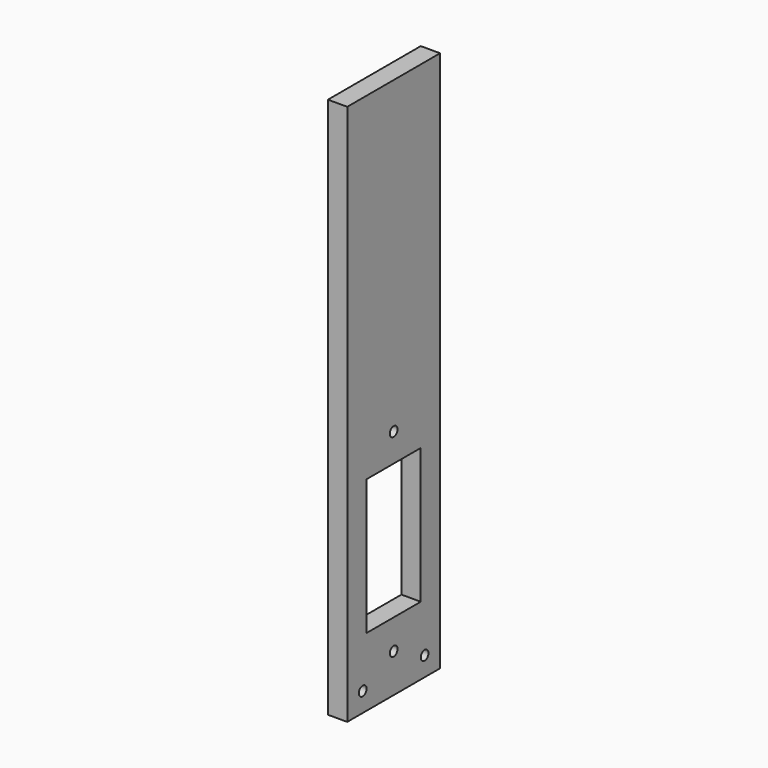
from build123d import *

# Parameters (mm, degrees)
F0_W     = 19.05
F0_H     = 88.9
F0_R     = 0.79375
F0_W_2   = 11.1125
F0_H_2   = 22.225
F1_DEPTH = 3.175


with BuildPart() as f1:
    # F0 (on Right) → F1 (new body)
    with BuildSketch(Plane.YZ):
        Rectangle(F0_W, F0_H)
        with Locations((-6.35, -41.275)):
            Circle(F0_R, mode=Mode.SUBTRACT)
        with Locations((0, -38.1)):
            Circle(F0_R, mode=Mode.SUBTRACT)
        with Locations((6.35, -41.275)):
            Circle(F0_R, mode=Mode.SUBTRACT)
        with Locations((0, -22.09799)):
            Rectangle(F0_W_2, F0_H_2, mode=Mode.SUBTRACT)
        with Locations((0, -6.35)):
            Circle(F0_R, mode=Mode.SUBTRACT)
    extrude(amount=F1_DEPTH)


solid = f1.part
